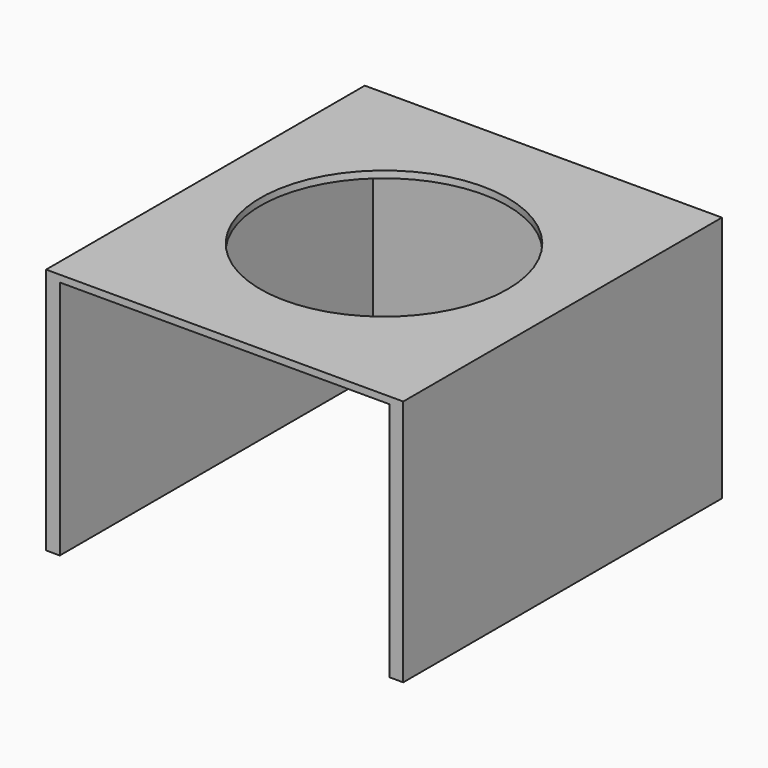
from build123d import *

# Parameters (mm, degrees)
F1_DEPTH = 22.86
F2_R     = 11.43
F3_DEPTH = 22.861
F5_DEPTH = 22.225
F7_DEPTH = 11.9126


with BuildPart() as f1:
    # F0 (on Top) → F1 (new body)
    with BuildSketch(Plane.XY):
        Polygon((-16.51, 18.415), (-16.51, 0), (-16.51, -18.415), (16.51, -18.415), (16.51, 18.415), align=None)
    extrude(amount=F1_DEPTH)

    # F2 (on Top) → F3 (cut, through all)
    with BuildSketch(Plane.XY):
        Circle(F2_R)
    extrude(amount=F3_DEPTH, mode=Mode.SUBTRACT)

    # F4 (on Top) → F5 (cut)
    with BuildSketch(Plane.XY):
        Polygon((-15.24, 17.78), (-15.24, 0), (-15.24, -17.78), (-15.24, -25.4), (15.24, -25.4), (15.24, -17.78), (15.24, 17.78), align=None)
    extrude(amount=F5_DEPTH, mode=Mode.SUBTRACT)

    # F6 (on Top) → F7 (cut)
    with BuildSketch(Plane.XY):
        Polygon((12.568022, 0), (0, 0), (-12.568022, 0), (-12.568022, -23.286249), (12.568022, -23.286249), align=None)
    extrude(amount=F7_DEPTH, mode=Mode.SUBTRACT)


solid = f1.part
